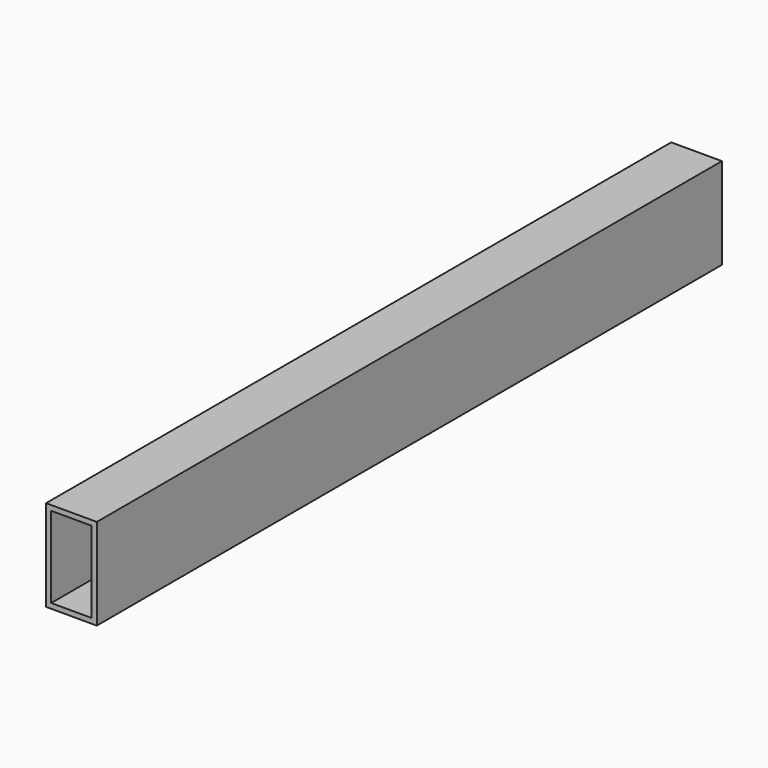
from build123d import *

# Parameters (mm, degrees)
F0_W     = 127
F0_H     = 228.6
F0_W_2   = 101.6
F0_H_2   = 203.2
F1_DEPTH = 1955.8
F2_W     = 76.2
F2_H     = 127
F3_DEPTH = 914.4


with BuildPart() as f1:
    # F0 (on Front) → F1 (new body)
    with BuildSketch(Plane.XZ):
        Rectangle(F0_W, F0_H)
        Rectangle(F0_W_2, F0_H_2, mode=Mode.SUBTRACT)
    extrude(amount=F1_DEPTH)


with BuildPart() as f3:
    # F2 (on Front) → F3 (new body)
    with BuildSketch(Plane.XZ):
        with BuildLine():
            Line((-44.45, -76.2), (44.45, -76.2))
            ThreePointArc((44.45, -76.2), (48.940128, -74.340128), (50.8, -69.85))
            Line((50.8, -69.85), (50.8, 69.85))
            ThreePointArc((50.8, 69.85), (48.940128, 74.340128), (44.45, 76.2))
            Line((44.45, 76.2), (-44.45, 76.2))
            ThreePointArc((-44.45, 76.2), (-48.940128, 74.340128), (-50.8, 69.85))
            Line((-50.8, 69.85), (-50.8, -69.85))
            ThreePointArc((-50.8, -69.85), (-48.940128, -74.340128), (-44.45, -76.2))
        make_face()
        Rectangle(F2_W, F2_H, mode=Mode.SUBTRACT)
    extrude(amount=F3_DEPTH)


solid = Compound([f1.part, f3.part])
